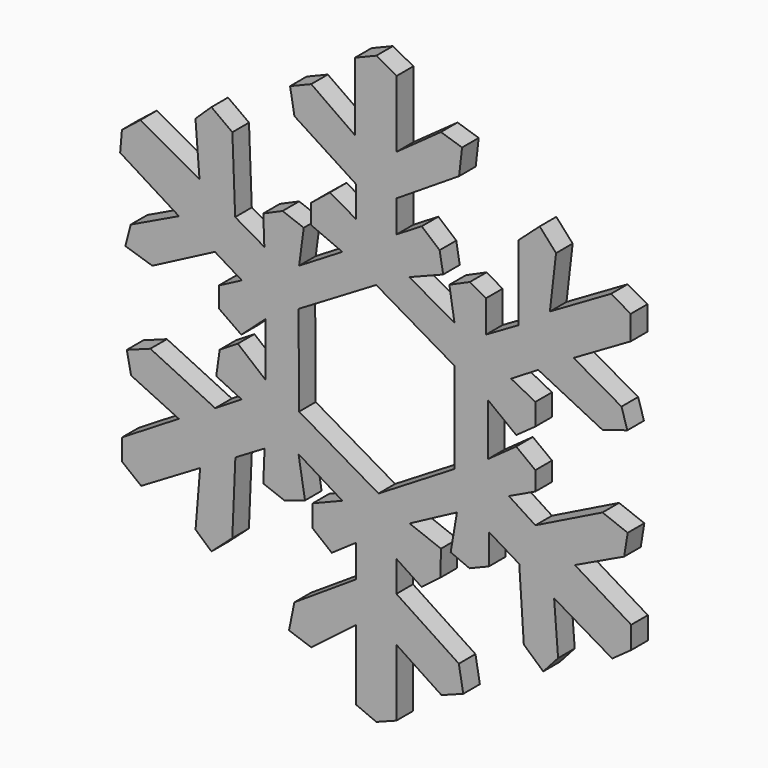
from build123d import *

# Parameters (mm, degrees)
F1_DEPTH = 0.889


with BuildPart() as f1:
    # F0 (on Front) → F1 (new body)
    with BuildSketch(Plane.XZ):
        Polygon((-7.766421, 2.049147), (-9.697749, 3.149271), (-8.251928, 3.717801), (-8.401837, 4.58542), (-9.168207, 5.237091), (-10.238115, 4.58542), (-10.238115, 5.944121), (-7.570077, 7.6432), (-7.442288, 8.765532), (-8.34682, 9.053338), (-10.238115, 7.696539), (-10.238115, 10.554039), (-11.1125, 11.030715), (-12.026622, 10.656827), (-12.026622, 7.737654), (-13.897186, 9.053338), (-14.801892, 8.683302), (-14.616874, 7.614309), (-11.972634, 5.904664), (-11.972634, 4.58542), (-13.099057, 5.233018), (-13.897186, 4.58542), (-13.897186, 3.738368), (-12.566103, 3.167905), (-13.490946, 2.606085), (-14.415789, 2.044265), (-14.217429, 3.537872), (-15.124985, 3.874964), (-15.949978, 3.513755), (-15.90289, 2.267294), (-17.152183, 2.986197), (-17.271507, 6.144799), (-18.168139, 6.798936), (-18.851348, 6.144799), (-18.678295, 3.910622), (-21.210807, 5.319494), (-21.997354, 4.69717), (-22.072788, 3.808485), (-19.557991, 2.238555), (-21.62216, 1.25008), (-21.850014, 0.367141), (-20.696388, 0), (-18.017134, 1.395444), (-16.867385, 0.695083), (-17.854148, 0.181145), (-17.854148, -0.682273), (-16.887943, -1.360672), (-15.860065, -0.435582), (-15.860065, -2.717471), (-17.038523, -1.745301), (-17.813032, -2.224089), (-17.962941, -3.267605), (-16.876877, -3.790525), (-18.007542, -4.489482), (-20.782813, -3.153241), (-21.790132, -3.523277), (-21.605115, -4.427809), (-19.562521, -5.39587), (-21.992089, -6.886292), (-21.992089, -7.802464), (-21.173319, -8.447639), (-18.651634, -6.953308), (-18.847212, -9.336909), (-18.167692, -9.941154), (-17.27537, -9.146621), (-17.142811, -6.062488), (-15.893939, -5.322416), (-15.948845, -6.659137), (-15.032252, -7.007643), (-14.164055, -6.716586), (-14.440246, -5.05889), (-12.565052, -6.207264), (-13.832696, -6.716586), (-13.832696, -7.661451), (-13.018659, -8.315589), (-11.986575, -7.603306), (-11.986575, -8.984262), (-14.617661, -10.699556), (-14.847309, -11.83401), (-13.893868, -12.164047), (-11.984149, -10.699556), (-11.984149, -13.696965), (-11.1125, -14.067002), (-10.252469, -13.738081), (-10.252469, -10.878737), (-8.323933, -12.14982), (-7.392148, -11.79901), (-7.580517, -10.724198), (-10.252469, -8.963136), (-10.252469, -7.642987), (-9.176794, -8.351956), (-8.370036, -7.740776), (-8.345589, -6.640652), (-9.690185, -6.127262), (-7.661067, -5.051585), (-7.929987, -6.640652), (-7.123229, -6.982913), (-6.292025, -6.640652), (-6.292025, -5.344951), (-4.996324, -6.127262), (-4.800489, -9.098248), (-3.969542, -9.843235), (-3.333915, -9.134266), (-3.505045, -6.934019), (-1.017748, -8.396618), (-0.204675, -7.814118), (-0.204675, -6.860677), (-2.616602, -5.393827), (-0.508032, -4.391492), (-0.355237, -3.444164), (-1.433989, -3.028562), (-4.306216, -4.446499), (-5.440253, -3.713083), (-4.306216, -3.175245), (-4.306216, -2.368488), (-5.126319, -1.7468), (-6.335333, -2.61296), (-6.335333, -0.385276), (-5.125197, -1.31427), (-4.306216, -0.727537), (-4.306216, 0.201456), (-5.345222, 0.739294), (-4.18398, 1.448263), (-1.433989, 0.083229), (-0.370219, 0.411185), (-0.620721, 1.223725), (-2.670654, 2.391408), (-0.225309, 3.809345), (-0.225309, 4.845845), (-1.068589, 5.326194), (-3.684515, 3.809345), (-3.420916, 6.093763), (-4.120606, 6.873983), (-5.028335, 6.059946), (-5.028335, 2.855904), (-6.419651, 2.049147), (-6.419651, 3.41819), (-7.106347, 3.809345), (-7.986446, 3.41819), align=None)
        Polygon((-14.416056, -3.451471), (-14.440504, 0.411185), (-11.115686, 2.391408), (-7.766421, 0.435633), (-7.766421, -3.451471), (-11.017897, -5.431693), align=None, mode=Mode.SUBTRACT)
    extrude(amount=F1_DEPTH)


solid = f1.part
